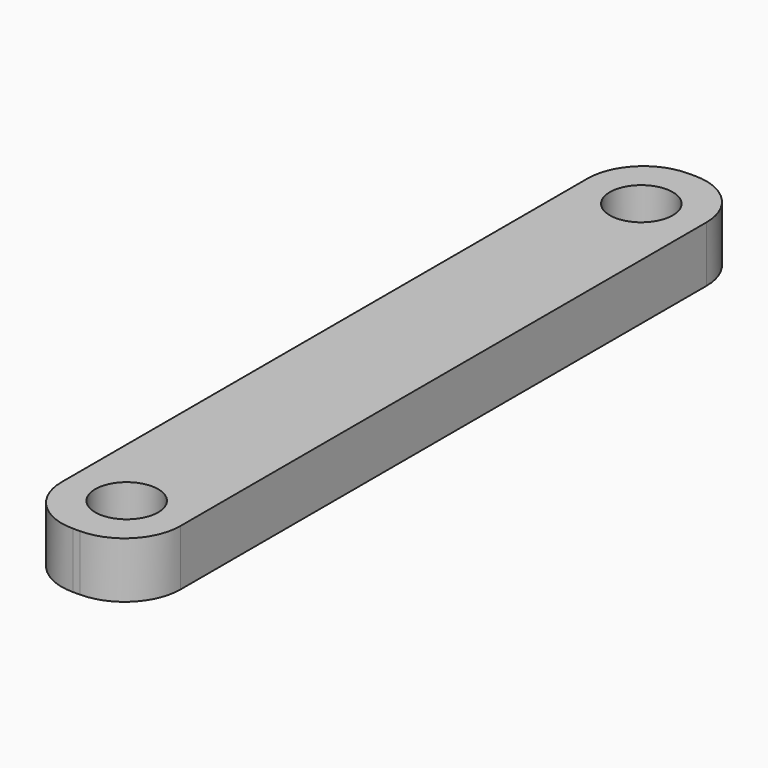
from build123d import *

# Parameters (mm, degrees)
SKETCH_W  = 8.5
SKETCH_H  = 55
SKETCH_R  = 2.25
PAD_DEPTH = 4
FILLET_R  = 4


with BuildPart() as part:
    # Sketch → Pad (new body)
    with BuildSketch(Plane.XY):
        with Locations((4.25, 27.5)):
            Rectangle(SKETCH_W, SKETCH_H)
        with Locations((4.25, 4.5)):
            Circle(SKETCH_R, mode=Mode.SUBTRACT)
        with Locations((4.25, 50.5)):
            Circle(SKETCH_R, mode=Mode.SUBTRACT)
    extrude(amount=PAD_DEPTH)

    # Fillet
    fillet_edges = [part.edges().sort_by_distance(p)[0] for p in [
        (0, 55, 2),
        (8.5, 55, 2),
        (0, 0, 2),
        (8.5, 0, 2),
    ]]
    fillet(fillet_edges, radius=FILLET_R)


solid = part.part
